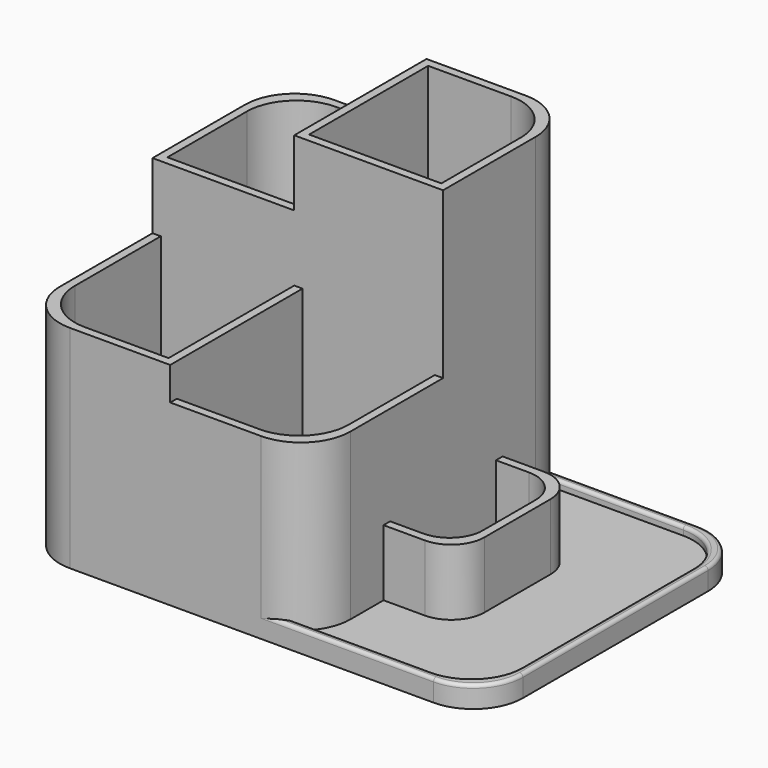
from build123d import *

# Parameters (mm, degrees)
F1_DEPTH  = 5.08
F3_DEPTH  = 101.6
F5_DEPTH  = 76.2
F7_DEPTH  = 127
F9_DEPTH  = 63.5
F11_DEPTH = 3.175
F12_R     = 1.27
F14_DEPTH = 25.4


with BuildPart() as f1:
    # F0 (on Top) → F1 (new body)
    with BuildSketch(Plane.XY):
        with BuildLine():
            Line((158.75, 0), (19.05, 0))
            ThreePointArc((19.05, 0), (5.5796158184, -5.5796158184), (0, -19.05))
            Line((0, -19.05), (0, -107.95))
            ThreePointArc((0, -107.95), (5.5796158184, -121.4203841816), (19.05, -127))
            Line((19.05, -127), (158.75, -127))
            ThreePointArc((158.75, -127), (172.2203841816, -121.4203841816), (177.8, -107.95))
            Line((177.8, -107.95), (177.8, -19.05))
            ThreePointArc((177.8, -19.05), (172.2203841816, -5.5796158184), (158.75, 0))
        make_face()
    extrude(amount=F1_DEPTH)

    # F2 (on face) → F3 (join)
    with BuildSketch(Plane.XY.offset(5.08)):
        with BuildLine():
            Line((57.6015881181, 0), (19.05, 0))
            ThreePointArc((19.05, 0), (5.5796158184, -5.5796158184), (0, -19.05))
            Line((0, -19.05), (0, -63.5))
            Line((0, -63.5), (57.6015881181, -63.5))
            Line((57.6015881181, -63.5), (57.6015881181, 0))
        make_face()
        with BuildLine():
            ThreePointArc((3.175, -22.225), (8.7546158184, -8.7546158184), (22.225, -3.175))
            Line((22.225, -3.175), (54.4265881181, -3.175))
            Line((54.4265881181, -3.175), (54.4265881181, -60.325))
            Line((54.4265881181, -60.325), (3.175, -60.325))
            Line((3.175, -60.325), (3.175, -22.225))
        make_face(mode=Mode.SUBTRACT)
    extrude(amount=F3_DEPTH)

    # F4 (on face) → F5 (join)
    with BuildSketch(Plane.XY.offset(5.08)):
        with BuildLine():
            Line((3.175, -63.5), (0, -63.5))
            Line((0, -63.5), (0, -107.95))
            ThreePointArc((0, -107.95), (5.5796158184, -121.4203841816), (19.05, -127))
            Line((19.05, -127), (57.6015881181, -127))
            Line((57.6015881181, -127), (57.6015881181, -63.5))
            Line((57.6015881181, -63.5), (54.4265881181, -63.5))
            Line((54.4265881181, -63.5), (54.4265881181, -123.825))
            Line((54.4265881181, -123.825), (22.225, -123.825))
            ThreePointArc((22.225, -123.825), (8.7546158184, -118.2453841816), (3.175, -104.775))
            Line((3.175, -104.775), (3.175, -63.5))
        make_face()
    extrude(amount=F5_DEPTH)

    # F6 (on face) → F7 (join)
    with BuildSketch(Plane.XY.offset(5.08)):
        with BuildLine():
            Line((54.4265881181, 0), (54.4265881181, -63.5))
            Line((54.4265881181, -63.5), (111.5765881181, -63.5))
            Line((111.5765881181, -63.5), (111.5765881181, -19.05))
            ThreePointArc((111.5765881181, -19.05), (105.9969722997, -5.5796158184), (92.5265881181, 0))
            Line((92.5265881181, 0), (57.6015881181, 0))
            Line((57.6015881181, 0), (54.4265881181, 0))
        make_face()
        with BuildLine():
            Line((57.6015881181, -60.325), (57.6015881181, -3.175))
            Line((57.6015881181, -3.175), (89.3515881181, -3.175))
            ThreePointArc((89.3515881181, -3.175), (102.8219722997, -8.7546158184), (108.4015881181, -22.225))
            Line((108.4015881181, -22.225), (108.4015881181, -60.325))
            Line((108.4015881181, -60.325), (57.6015881181, -60.325))
        make_face(mode=Mode.SUBTRACT)
    extrude(amount=F7_DEPTH)

    # F8 (on face) → F9 (join)
    with BuildSketch(Plane.XY.offset(5.08)):
        with BuildLine():
            Line((111.5765881181, -60.325), (54.4265881181, -60.325))
            Line((54.4265881181, -60.325), (54.4265881181, -127))
            Line((54.4265881181, -127), (92.5265881181, -127))
            ThreePointArc((92.5265881181, -127), (105.9969722997, -121.4203841816), (111.5765881181, -107.95))
            Line((111.5765881181, -107.95), (111.5765881181, -60.325))
        make_face()
        with BuildLine():
            Line((57.6015881181, -123.825), (57.6015881181, -63.5))
            Line((57.6015881181, -63.5), (108.4015881181, -63.5))
            Line((108.4015881181, -63.5), (108.4015881181, -104.775))
            ThreePointArc((108.4015881181, -104.775), (102.8219722997, -118.2453841816), (89.3515881181, -123.825))
            Line((89.3515881181, -123.825), (57.6015881181, -123.825))
        make_face(mode=Mode.SUBTRACT)
    extrude(amount=F9_DEPTH)

    # F10 (on face) → F11 (join)
    with BuildSketch(Plane.XY.offset(5.08)):
        with BuildLine():
            Line((158.75, 0), (92.5265881181, 0))
            Line((92.5265881181, 0), (103.0568718275, -3.175))
            Line((103.0568718275, -3.175), (155.575, -3.175))
            ThreePointArc((155.575, -3.175), (169.0453841816, -8.7546158184), (174.625, -22.225))
            Line((174.625, -22.225), (174.625, -104.775))
            ThreePointArc((174.625, -104.775), (169.0453841816, -118.2453841816), (155.575, -123.825))
            Line((155.575, -123.825), (103.0568718275, -123.825))
            Line((103.0568718275, -123.825), (92.5265881181, -127))
            Line((92.5265881181, -127), (158.75, -127))
            ThreePointArc((158.75, -127), (172.2203841816, -121.4203841816), (177.8, -107.95))
            Line((177.8, -107.95), (177.8, -19.05))
            ThreePointArc((177.8, -19.05), (172.2203841816, -5.5796158184), (158.75, 0))
        make_face()
    extrude(amount=F11_DEPTH)

    # F12
    f12_edges = [f1.edges().sort_by_distance(p)[0] for p in [
        (125.638294, 0, 8.255),
        (169.045384, -8.754616, 8.255),
        (172.220384, -5.579616, 8.255),
        (177.8, -63.5, 8.255),
        (174.625, -63.5, 8.255),
        (172.220384, -121.420384, 8.255),
        (169.045384, -118.245384, 8.255),
        (129.315936, -123.825, 8.255),
        (125.638294, -127, 8.255),
        (129.315936, -3.175, 8.255),
    ]]
    fillet(f12_edges, radius=F12_R)

    # F13 (on face) → F14 (join)
    with BuildSketch(Plane.XY.offset(5.08)):
        with BuildLine():
            Line((111.5765881181, -92.075), (127.4515881181, -92.075))
            ThreePointArc((127.4515881181, -92.075), (136.4318442391, -88.3552561211), (140.1515881181, -79.375))
            Line((140.1515881181, -79.375), (140.1515881181, -47.625))
            ThreePointArc((140.1515881181, -47.625), (136.4318442391, -38.6447438789), (127.4515881181, -34.925))
            Line((127.4515881181, -34.925), (111.5765881181, -34.925))
            Line((111.5765881181, -34.925), (111.5765881181, -38.1))
            Line((111.5765881181, -38.1), (124.2765881181, -38.1))
            ThreePointArc((124.2765881181, -38.1), (133.2568442391, -41.8197438789), (136.9765881181, -50.8))
            Line((136.9765881181, -50.8), (136.9765881181, -76.2))
            ThreePointArc((136.9765881181, -76.2), (133.2568442391, -85.1802561211), (124.2765881181, -88.9))
            Line((124.2765881181, -88.9), (111.5765881181, -88.9))
            Line((111.5765881181, -88.9), (111.5765881181, -92.075))
        make_face()
    extrude(amount=F14_DEPTH)


solid = f1.part
